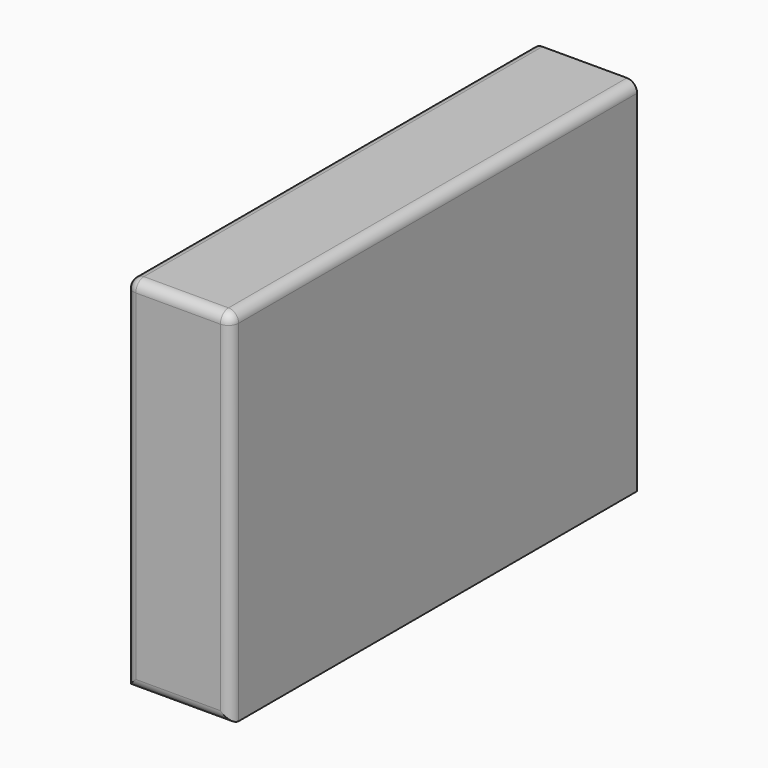
from build123d import *

# Parameters (mm, degrees)
F0_W     = 51.5
F0_H     = 177
F1_DEPTH = 124.75
F2_R     = 5
F3_R     = 5
F4_DEPTH = 25
F5_DEPTH = 40.6


with BuildPart() as f1:
    # F0 (on Front) → F1 (new body, symmetric)
    with BuildSketch(Plane.XZ):
        Rectangle(F0_W, F0_H)
    extrude(amount=F1_DEPTH, both=True)

    # F2
    f2_edges = [f1.edges().sort_by_distance(p)[0] for p in [
        (0, -124.75, 88.5),
    ]]
    fillet(f2_edges, radius=F2_R)

    # F3
    f3_edges = [f1.edges().sort_by_distance(p)[0] for p in [
        (25.75, -124.75, -2.5),
        (0, -124.75, 83.5),
        (0, -124.75, -88.5),
        (-25.75, -124.75, -2.5),
    ]]
    fillet(f3_edges, radius=F3_R)

    # F4 (add): a face of the model
    f4_faces = [f1.faces().sort_by_distance(p)[0] for p in [
        (0, -124.75, 0),
    ]]
    extrude(f4_faces, amount=-F4_DEPTH)

    # F5 (add): a face of the model
    f5_faces = [f1.faces().sort_by_distance(p)[0] for p in [
        (0, -124.75, 0),
    ]]
    extrude(f5_faces, amount=-F5_DEPTH)


solid = f1.part
